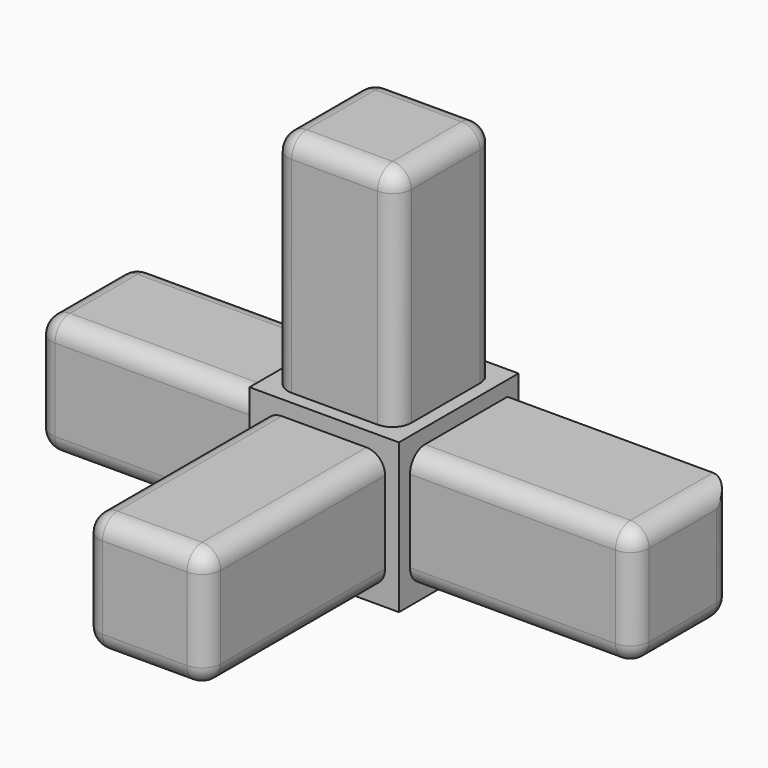
from build123d import *

# Parameters (mm, degrees)
F0_W     = 16.3
F0_H     = 16
F1_DEPTH = 50
F0_W_2   = 20
F0_H_2   = 20
F2_DEPTH = 20
F3_W     = 16.3
F3_H     = 16
F4_DEPTH = 40
F5_W     = 16.3
F5_H     = 16
F6_DEPTH = 40
F7_W     = 16.5
F7_H     = 16.5
F8_DEPTH = 40
F9_R     = 2.5


with BuildPart() as f1:
    # F0 (on Front) → F1 (new body)
    with BuildSketch(Plane.XZ):
        Rectangle(F0_W, F0_H)
    extrude(amount=F1_DEPTH)

    # F0 (on Front) → F2 (join)
    with BuildSketch(Plane.XZ):
        Rectangle(F0_W_2, F0_H_2)
        Rectangle(F0_W, F0_H, mode=Mode.SUBTRACT)
    extrude(amount=F2_DEPTH)

    # F3 (on Right) → F4 (join)
    with BuildSketch(Plane.YZ):
        with Locations((-10, 0)):
            Rectangle(F3_W, F3_H)
    extrude(amount=F4_DEPTH)

    # F5 (on Right) → F6 (join)
    with BuildSketch(Plane.YZ):
        with Locations((-10, 0)):
            Rectangle(F5_W, F5_H)
    extrude(amount=-F6_DEPTH)

    # F7 (on Top) → F8 (join)
    with BuildSketch(Plane.XY):
        with Locations((0, -10)):
            Rectangle(F7_W, F7_H)
    extrude(amount=F8_DEPTH)

    # F9
    f9_edges = [f1.edges().sort_by_distance(p)[0] for p in [
        (0, 0, -10),
        (-25, -1.85, -8),
        (-25, -18.15, -8),
        (-25, -1.85, 8),
        (-25, -18.15, 8),
        (-40, -10, -8),
        (-40, -1.85, 0),
        (-40, -10, 8),
        (-40, -18.15, 0),
        (-8.25, -18.25, 25),
        (0, -18.25, 40),
        (-8.25, -10, 40),
        (8.25, -10, 40),
        (0, -1.75, 40),
        (-8.25, -1.75, 25),
        (8.25, -1.75, 25),
        (8.25, -18.25, 25),
        (-8.15, -35, 8),
        (0, -50, 8),
        (8.15, -35, 8),
        (-8.15, -50, 0),
        (0, -50, -8),
        (8.15, -50, 0),
        (25, -18.15, 8),
        (25, -18.15, -8),
        (40, -10, -8),
        (40, -1.85, 0),
        (40, -10, 8),
        (40, -18.15, 0),
        (8.15, -35, -8),
        (-8.15, -35, -8),
        (25, -1.85, -8),
    ]]
    fillet(f9_edges, radius=F9_R)


solid = f1.part
